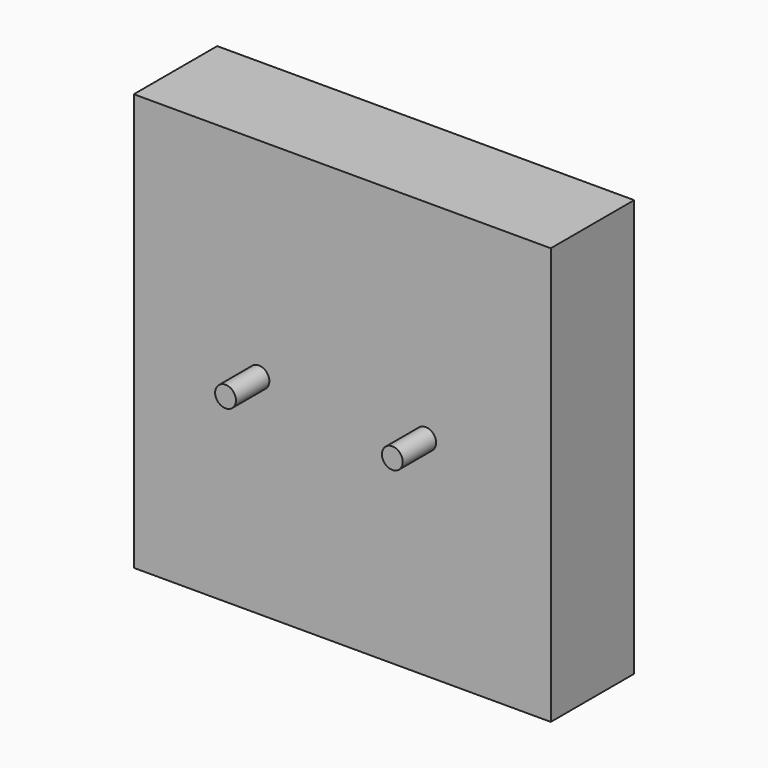
from build123d import *

# Parameters (mm, degrees)
F0_W          = 10
F0_H          = 40
F1_DEPTH      = 20
F1_DEPTH_BACK = 20
F2_R          = 1
F3_DEPTH      = 4


with BuildPart() as f1:
    # F0 (on Right) → F1 (new body, two sides)
    with BuildSketch(Plane.YZ) as f1_sk:
        Rectangle(F0_W, F0_H)
    extrude(amount=F1_DEPTH)
    extrude(f1_sk.sketch, amount=-F1_DEPTH_BACK)

    # F2 (on face) → F3 (join)
    with BuildSketch(Plane.XZ.offset(5)):
        with Locations((-8, 0)):
            Circle(F2_R)
        with Locations((8, 0)):
            Circle(F2_R)
    extrude(amount=F3_DEPTH)


solid = f1.part
